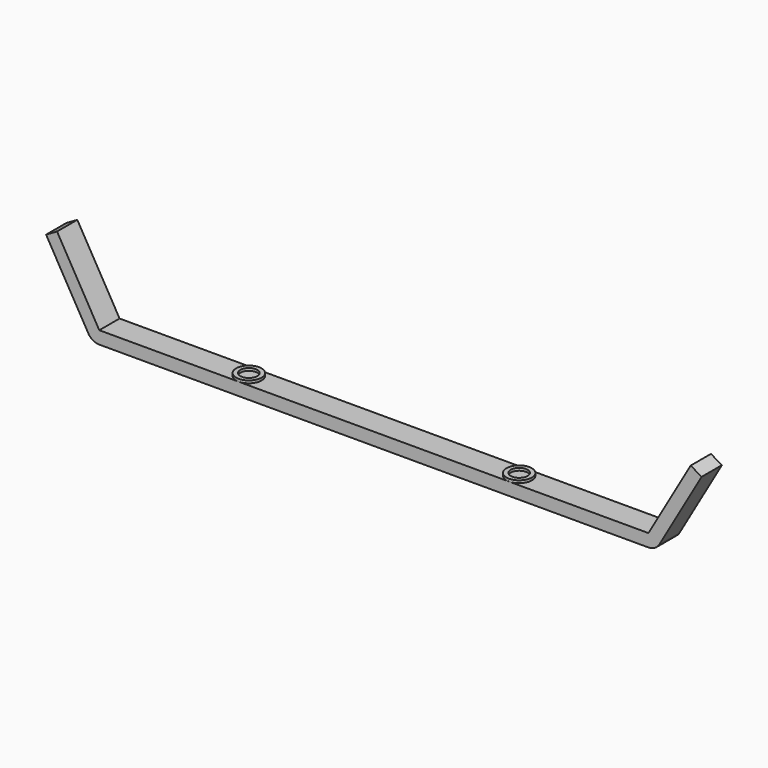
from build123d import *

# Parameters (mm, degrees)
PAD_DEPTH     = 3
SKETCH001_R   = 3
SKETCH001_R_2 = 2
PAD001_DEPTH  = 0.6


with BuildPart() as part:
    # Sketch → Pad (new body, symmetric)
    with BuildSketch(Plane.XZ):
        with BuildLine():
            Line((-65, 0), (65, 0))
            ThreePointArc((65, 0), (66.499997, 0.401922), (67.598072, 1.499993))
            Line((77.598076, 18.820508), (67.598072, 1.499993))
            Line((77.598076, 18.820508), (75, 20.320508))
            Line((75, 20.320508), (65, 3))
            Line((-65, 3), (65, 3))
            Line((-75, 20.320508), (-65, 3))
            Line((-77.598076, 18.820508), (-75, 20.320508))
            Line((-77.598076, 18.820508), (-67.598088, 1.50002))
            ThreePointArc((-67.598088, 1.50002), (-66.50001, 0.40193), (-65, 0))
        make_face()
    extrude(amount=PAD_DEPTH, both=True)

    # Sketch001 → Pad001 (new body)
    with BuildSketch(Plane(origin=(0, 0, 3), x_dir=(-1, 0, 0), z_dir=(0, 0, 1))):
        with Locations((-32, 0)):
            Circle(SKETCH001_R)
        with Locations((-32, 0)):
            Circle(SKETCH001_R_2, mode=Mode.SUBTRACT)
        with Locations((32, 0)):
            Circle(SKETCH001_R)
        with Locations((32, 0)):
            Circle(SKETCH001_R_2, mode=Mode.SUBTRACT)
    extrude(amount=PAD001_DEPTH)


solid = part.part
